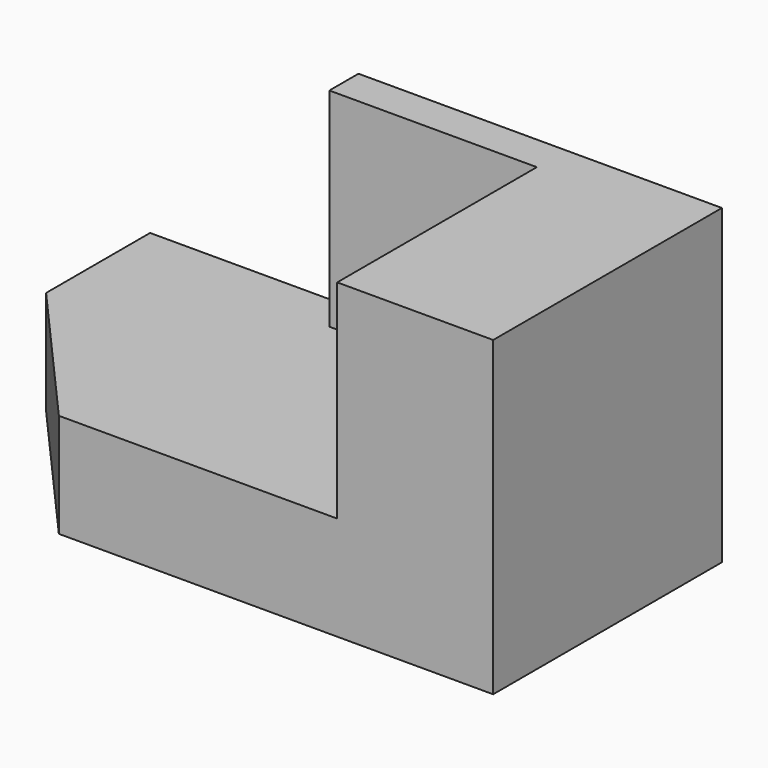
from build123d import *

# Parameters (mm, degrees)
F0_W     = 2794
F0_H     = 1397
F1_DEPTH = 1524
F4_DEPTH = 1016
F5_W     = 1018.2407798767
F5_H     = 1016
F6_DEPTH = 3329.94
F8_DEPTH = 1772.92


with BuildPart() as f1:
    # F0 (on Top) → F1 (new body)
    with BuildSketch(Plane.XY):
        with Locations((-1397, 698.5)):
            Rectangle(F0_W, F0_H)
    extrude(amount=F1_DEPTH)

    # F3 (on face) → F4 (cut)
    with BuildSketch(Plane.XY.offset(1524)):
        Polygon((-762, 0), (-762, 1016), (-762, 1219.2), (-1775.7592201233, 1219.2), (-1775.7592201233, 0), align=None)
    extrude(amount=-F4_DEPTH, mode=Mode.SUBTRACT)

    # F5 (on face) → F6 (cut)
    with BuildSketch(Plane.XZ):
        with Locations((-2284.8796100616, 1016)):
            Rectangle(F5_W, F5_H)
    extrude(amount=-F6_DEPTH, mode=Mode.SUBTRACT)

    # F7 (on face) → F8 (cut)
    with BuildSketch(Plane.XY.offset(508)):
        Polygon((-2121.9791669896, 0), (-2794, 762), (-2794, 0), align=None)
    extrude(amount=-F8_DEPTH, mode=Mode.SUBTRACT)


solid = f1.part
